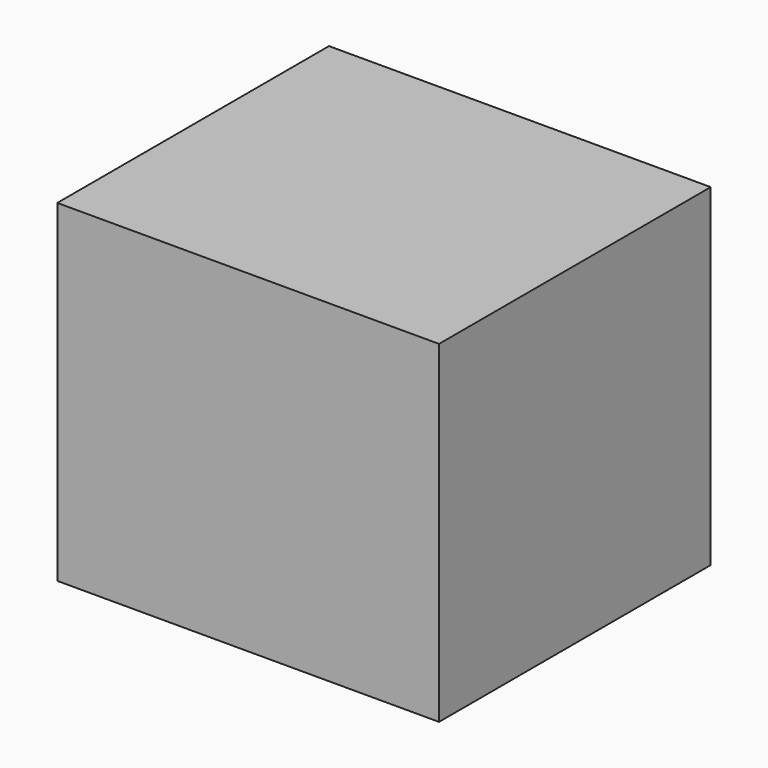
from build123d import *

# Parameters (mm, degrees)
CYLINDER_R       = 32.5
CYLINDER_DEPTH   = 1
SKETCH001_R      = 2
EXTRUDE_DEPTH    = 3.2
SKETCH002_W      = 124.950363
SKETCH002_H      = 122.837688
EXTRUDE001_DEPTH = 160
SKETCH003_W      = 298.233032
SKETCH003_H      = 265.319916
EXTRUDE002_DEPTH = 130
SKETCH004_W      = 219.0448
SKETCH004_H      = 199.574135
EXTRUDE003_DEPTH = 0.035


with BuildPart() as body:
    # Sketch → Revolution (revolve)
    with BuildSketch(Plane.YZ):
        Polygon((-45, -63.973707), (-46, -63.973707), (-2.1, 70.291405), (0, 70.291405), (0, 69.291405), (-2.1, 69.291405), align=None)
    revolve(axis=Axis((0, 0, 0), (0, 0, 1)))


with BuildPart() as gnd_plate:
    # Cylinder → Cylinder (new body)
    with BuildSketch(Plane.XY.offset(71.5)):
        Circle(CYLINDER_R)
    extrude(amount=CYLINDER_DEPTH)


with BuildPart() as port_in:
    # Sketch001 (on Face5 of Revolution) → Extrude (new body)
    with BuildSketch(Plane(origin=(0, 0, 70.291405), x_dir=(0, -1, 0), z_dir=(0, 0, 1))):
        Circle(SKETCH001_R)
    extrude(amount=EXTRUDE_DEPTH)


with BuildPart() as port_in_1:
    # Extrude placement: moved
    add(port_in.part.moved(Location((0, 0, -1))))


with BuildPart() as simbox:
    # Sketch002 → Extrude001 (new body)
    with BuildSketch(Plane.XY.offset(20)):
        with Locations((0.74118, 0.828062)):
            Rectangle(SKETCH002_W, SKETCH002_H)
    extrude(amount=EXTRUDE001_DEPTH)


with BuildPart() as simbox_1:
    # Extrude001 placement: moved
    add(simbox.part.moved(Location((0, 0, -95))))


with BuildPart() as air:
    # Sketch003 → Extrude002 (new body, symmetric)
    with BuildSketch(Plane.XY.offset(45)):
        with Locations((3.540405, 0.152069)):
            Rectangle(SKETCH003_W, SKETCH003_H)
    extrude(amount=EXTRUDE002_DEPTH, both=True)


with BuildPart() as air_1:
    # Extrude002 placement: moved
    add(air.part.moved(Location((0, 0, -20))))


with BuildPart() as obj1:
    # Sketch004 → Extrude003 (new body)
    with BuildSketch(Plane.YZ):
        with Locations((1.72242, 7.738484)):
            Rectangle(SKETCH004_W, SKETCH004_H)
    extrude(amount=EXTRUDE003_DEPTH)


solid = Compound([body.part, gnd_plate.part, port_in_1.part, simbox_1.part, air_1.part, obj1.part])
